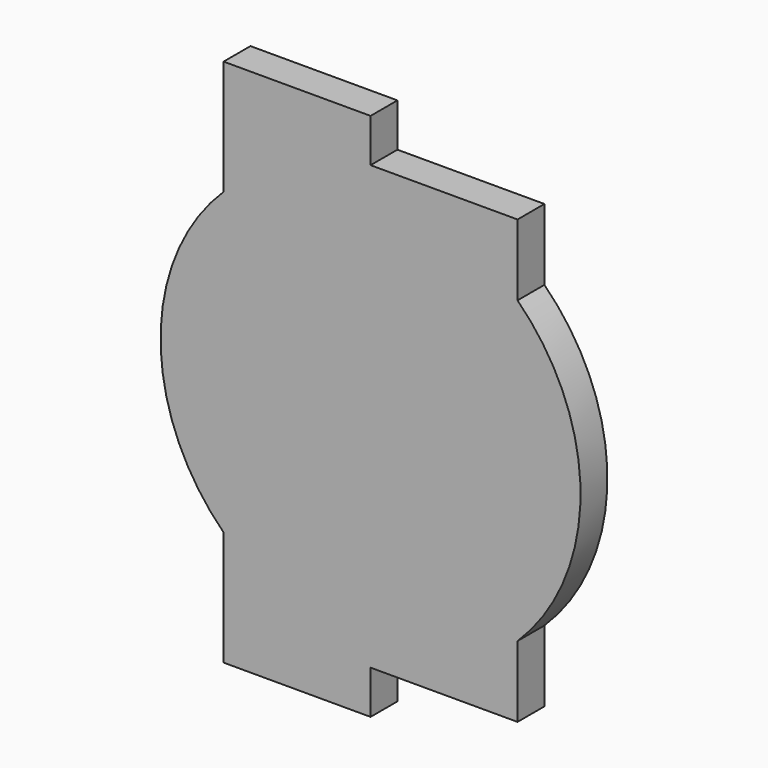
from build123d import *

# Parameters (mm, degrees)
F1_DEPTH = 2.4


with BuildPart() as f1:
    # F0 (on Front) → F1 (new body)
    with BuildSketch(Plane.XZ):
        with BuildLine():
            Line((-10.5, 18.9), (-10.5, 10.712143))
            ThreePointArc((-10.5, 10.712143), (-15, 0), (-10.5, -10.712143))
            Line((-10.5, -10.712143), (-10.5, -18.9))
            Line((-10.5, -18.9), (0, -18.9))
            Line((0, -18.9), (0, -15.8))
            Line((0, -15.8), (10.5, -15.8))
            Line((10.5, -15.8), (10.5, -10.712143))
            ThreePointArc((10.5, -10.712143), (15, 0), (10.5, 10.712143))
            Line((10.5, 10.712143), (10.5, 15.8))
            Line((10.5, 15.8), (0, 15.8))
            Line((0, 15.8), (0, 18.9))
            Line((0, 18.9), (-10.5, 18.9))
        make_face()
    extrude(amount=F1_DEPTH)


solid = f1.part
